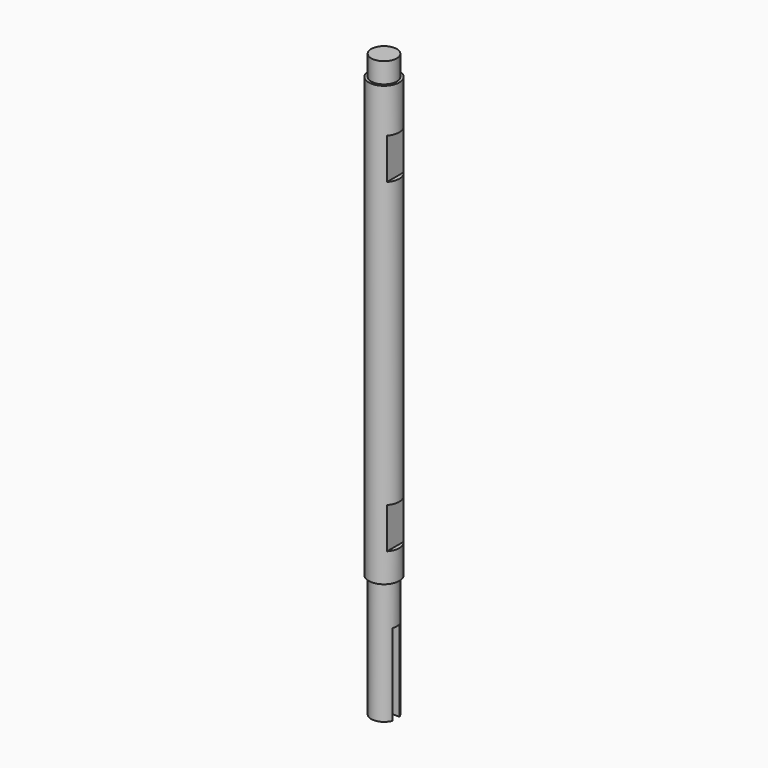
from build123d import *

# Parameters (mm, degrees)
F0_R     = 7.9375
F1_DEPTH = 361.95
F0_R_2   = 9.525
F2_DEPTH = 349.25
F3_DEPTH = 76.2
F5_W     = 5.461208
F5_H     = 50.8
F6_DEPTH = 4.7625
F8_W     = 25.4
F8_H     = 25.4
F9_DEPTH = 2.54


with BuildPart() as f1:
    # F0 (on Top) → F1 (new body)
    with BuildSketch(Plane.XY):
        Circle(F0_R)
    extrude(amount=F1_DEPTH)

    # F0 (on Top) → F2 (join)
    with BuildSketch(Plane.XY):
        Circle(F0_R_2)
        Circle(F0_R, mode=Mode.SUBTRACT)
    extrude(amount=F2_DEPTH)

    # F0 (on Top) → F3 (cut)
    with BuildSketch(Plane.XY):
        Circle(F0_R_2)
        Circle(F0_R, mode=Mode.SUBTRACT)
    extrude(amount=F3_DEPTH, mode=Mode.SUBTRACT)

    # F5 (on offset) → F6 (cut)
    with BuildSketch(Plane.YZ.offset(7.9375)):
        with Locations((0, 25.4)):
            Rectangle(F5_W, F5_H)
    extrude(amount=-F6_DEPTH, mode=Mode.SUBTRACT)

    # F8 (on offset) → F9 (cut)
    with BuildSketch(Plane.YZ.offset(9.525)):
        with Locations((0, 309.224188)):
            Rectangle(F8_W, F8_H)
        with Locations((0, 106.897242)):
            Rectangle(F8_W, F8_H)
    extrude(amount=-F9_DEPTH, mode=Mode.SUBTRACT)


solid = f1.part
